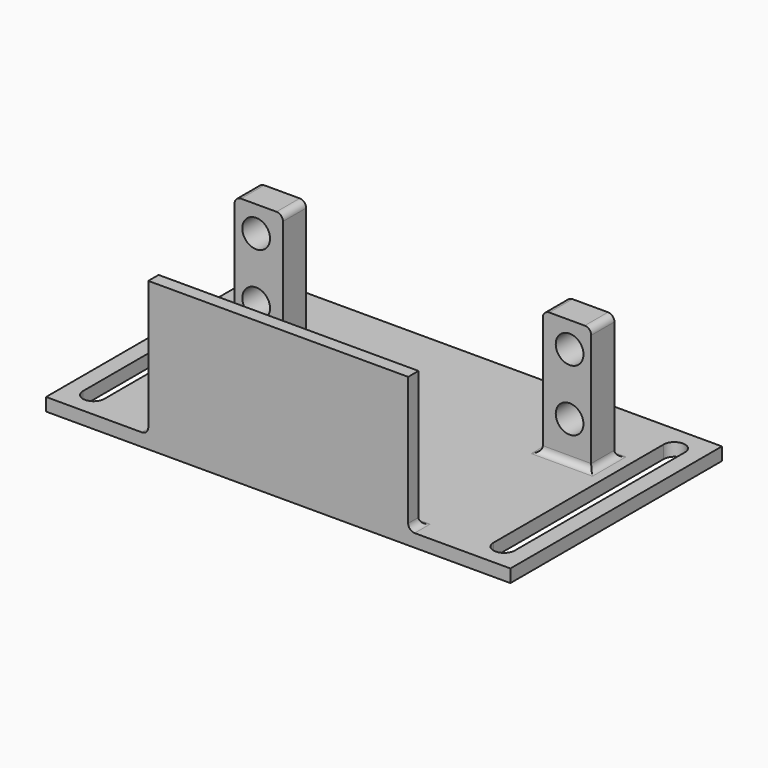
from build123d import *

# Parameters (mm, degrees)
SKETCH_W          = 72
SKETCH_H          = 41
PAD_DEPTH         = 2
SKETCH001_W       = 40.3
SKETCH001_H       = 21
PAD001_DEPTH      = 2
SKETCH002_W       = 7.5
SKETCH002_H       = 19.5
SKETCH002_R       = 2.15
PAD002_DEPTH      = 2.5
PAD002_DEPTH_BACK = -2
POCKET_DEPTH      = 173.977743
FILLET_R          = 1


with BuildPart() as part:
    # Sketch → Pad (new body)
    with BuildSketch(Plane.XY):
        Rectangle(SKETCH_W, SKETCH_H)
    extrude(amount=PAD_DEPTH)

    # Sketch001 (on Face2 of Pad) → Pad001 (join)
    with BuildSketch(Plane.XZ.offset(20.5)):
        with Locations((0, 12.5)):
            Rectangle(SKETCH001_W, SKETCH001_H)
    extrude(amount=-PAD001_DEPTH)

    # Sketch002 (on DatumPlane) → Pad002 (join, two sides)
    with BuildSketch(Plane(origin=(0, 8.1, 0), x_dir=(-1, 0, 0), z_dir=(0, 1, 0))) as pad002_sk:
        with Locations((23.9, 11.75)):
            Rectangle(SKETCH002_W, SKETCH002_H)
        with Locations((24.3, 17.5)):
            Circle(SKETCH002_R, mode=Mode.SUBTRACT)
        with Locations((24.3, 8)):
            Circle(SKETCH002_R, mode=Mode.SUBTRACT)
        with Locations((-23.9, 11.75)):
            Rectangle(SKETCH002_W, SKETCH002_H)
        with Locations((-24.3, 17.5)):
            Circle(SKETCH002_R, mode=Mode.SUBTRACT)
        with Locations((-24.3, 8)):
            Circle(SKETCH002_R, mode=Mode.SUBTRACT)
    extrude(amount=-PAD002_DEPTH)
    extrude(pad002_sk.sketch, amount=-PAD002_DEPTH_BACK)

    # Sketch003 (on Face5 of Pad002) → Pocket (cut, through all)
    with BuildSketch(Plane.XY.offset(2)):
        with BuildLine():
            ThreePointArc((33.475, 16.5), (31.825, 18.15), (30.175, 16.5))
            Line((30.175, 16.5), (30.175, -16.5))
            ThreePointArc((30.175, -16.5), (31.825, -18.15), (33.475, -16.5))
            Line((33.475, 16.5), (33.475, -16.5))
        make_face()
    pocket = extrude(amount=-POCKET_DEPTH, mode=Mode.SUBTRACT)

    # Mirrored: Pocket across YZ
    add(pocket.mirror(Plane.YZ), mode=Mode.SUBTRACT)

    # Fillet
    fillet_edges = [part.edges().sort_by_distance(p)[0] for p in [
        (-20.15, 7.85, 2),
        (-23.9, 5.6, 2),
        (-27.65, 7.85, 2),
        (-23.9, 10.1, 2),
        (-20.15, 7.85, 21.5),
        (-27.65, 7.85, 21.5),
        (20.15, 7.85, 21.5),
        (27.65, 7.85, 21.5),
        (27.65, 7.85, 2),
        (23.9, 5.6, 2),
        (23.9, 10.1, 2),
        (20.15, 7.85, 2),
        (20.15, -19.5, 2),
        (0, -18.5, 2),
        (-20.15, -19.5, 2),
    ]]
    fillet(fillet_edges, radius=FILLET_R)


solid = part.part
